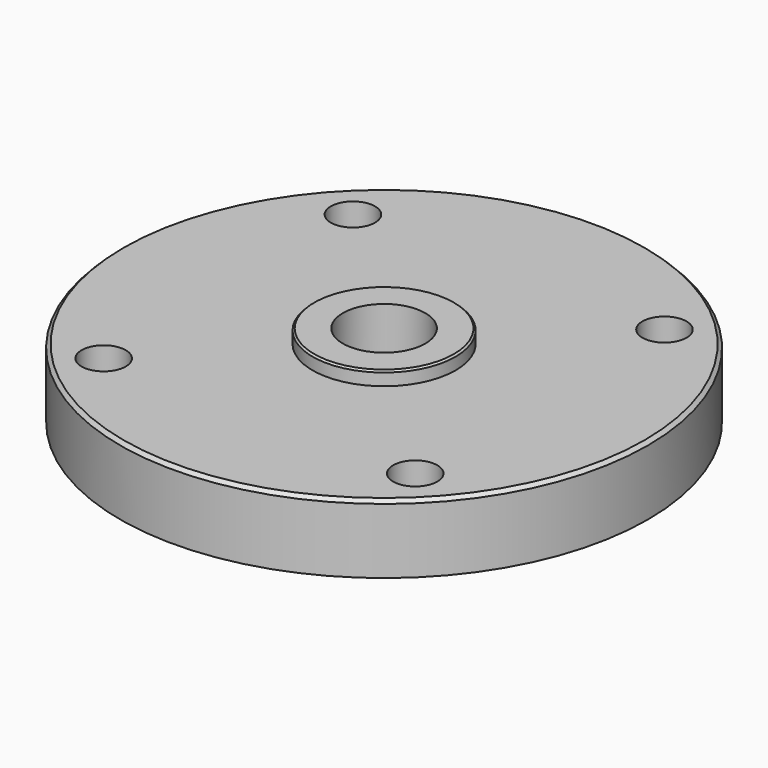
from build123d import *

# Parameters (mm, degrees)
F0_R     = 30.5
F0_R_2   = 2.555
F0_R_3   = 8.265
F1_DEPTH = 7.94
F2_SIZE  = 0.4
F0_R_4   = 4.765
F3_DEPTH = 9.53
F4_SIZE  = 0.2


with BuildPart() as f1:
    # F0 (on Top) → F1 (new body)
    with BuildSketch(Plane.XY):
        Circle(F0_R)
        with Locations((-18, -18)):
            Circle(F0_R_2, mode=Mode.SUBTRACT)
        with Locations((18, -18)):
            Circle(F0_R_2, mode=Mode.SUBTRACT)
        with BuildLine():
            ThreePointArc((-18, 15.445), (-19.806658, 19.806658), (-15.445, 18))
            ThreePointArc((-15.445, 18), (-16.193342, 16.193342), (-18, 15.445))
        make_face(mode=Mode.SUBTRACT)
        Circle(F0_R_3, mode=Mode.SUBTRACT)
        with Locations((18, 18)):
            Circle(F0_R_2, mode=Mode.SUBTRACT)
    extrude(amount=F1_DEPTH)

    # F2
    f2_edges = [f1.edges().sort_by_distance(p)[0] for p in [
        (-30.5, 0, 7.94),
    ]]
    chamfer(f2_edges, length=F2_SIZE)

    # F0 (on Top) → F3 (join)
    with BuildSketch(Plane.XY):
        Circle(F0_R_3)
        Circle(F0_R_4, mode=Mode.SUBTRACT)
    extrude(amount=F3_DEPTH)

    # F4
    f4_edges = [f1.edges().sort_by_distance(p)[0] for p in [
        (-8.265, 0, 9.53),
    ]]
    chamfer(f4_edges, length=F4_SIZE)


solid = f1.part
